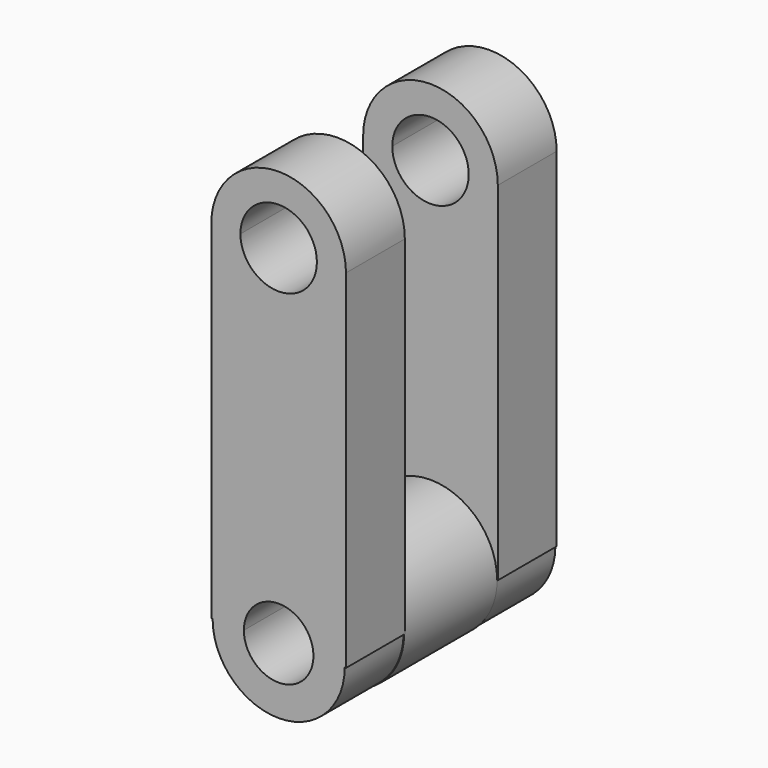
from build123d import *

# Parameters (mm, degrees)
F1_DEPTH = 25.4
F2_R     = 23.0115173136
F3_DEPTH = 20.066
F5_DEPTH = 65.533


with BuildPart() as f1:
    # F0 (on Front) → F1 (new body)
    with BuildSketch(Plane.XZ):
        with BuildLine():
            Line((23.2431292534, -60.0447505713), (23.2431292534, 60.0447505713))
            ThreePointArc((23.2431292534, 60.0447505713), (0, 36.8016213179), (-23.2431292534, 60.0447505713))
            Line((-23.2431292534, 60.0447505713), (-23.2431292534, -60.0447505713))
            Line((-23.2431292534, -60.0447505713), (-22.8073433001, -60.0447505713))
            ThreePointArc((-22.8073433001, -60.0447505713), (0, -37.2374072712), (22.8073433001, -60.0447505713))
            Line((22.8073433001, -60.0447505713), (23.2431292534, -60.0447505713))
        make_face()
        with BuildLine():
            Line((23.2431292534, 60.0447505713), (13.2014414659, 60.0447505713))
            ThreePointArc((13.2014414659, 60.0447505713), (0, 46.8433091053), (-13.2014414659, 60.0447505713))
            Line((-13.2014414659, 60.0447505713), (-23.2431292534, 60.0447505713))
            ThreePointArc((-23.2431292534, 60.0447505713), (0, 36.8016213179), (23.2431292534, 60.0447505713))
        make_face()
        with BuildLine():
            Line((12.0115778455, -60.0447505713), (22.8073433001, -60.0447505713))
            ThreePointArc((22.8073433001, -60.0447505713), (0, -37.2374072712), (-22.8073433001, -60.0447505713))
            Line((-22.8073433001, -60.0447505713), (-12.0115778455, -60.0447505713))
            ThreePointArc((-12.0115778455, -60.0447505713), (0, -48.0331727257), (12.0115778455, -60.0447505713))
        make_face()
        with BuildLine():
            ThreePointArc((-22.8073433001, -60.0447505713), (0, -82.8520938713), (22.8073433001, -60.0447505713))
            Line((22.8073433001, -60.0447505713), (12.0115778455, -60.0447505713))
            ThreePointArc((12.0115778455, -60.0447505713), (0, -72.0563284168), (-12.0115778455, -60.0447505713))
            Line((-12.0115778455, -60.0447505713), (-22.8073433001, -60.0447505713))
        make_face()
        with BuildLine():
            ThreePointArc((-13.2014414659, 60.0447505713), (0, 73.2461920372), (13.2014414659, 60.0447505713))
            Line((13.2014414659, 60.0447505713), (23.2431292534, 60.0447505713))
            ThreePointArc((23.2431292534, 60.0447505713), (0, 83.2878798246), (-23.2431292534, 60.0447505713))
            Line((-23.2431292534, 60.0447505713), (-13.2014414659, 60.0447505713))
        make_face()
    extrude(amount=F1_DEPTH)

    # F2 (on face) → F3 (join)
    with BuildSketch(Plane(origin=(0, 0, 0), x_dir=(-1, 0, 0), z_dir=(0, 1, 0))):
        with Locations((0, -60.0447505713)):
            Circle(F2_R)
    extrude(amount=F3_DEPTH)

    # F4: F1 across face


with BuildPart() as f1_1:
    add(f1.part)
    add(f1.part.mirror(Plane(origin=(0, 20.066, -60.0447505713), x_dir=(-1, 0, 0), z_dir=(0, 1, 0))))

    # F5 (cut, through all): a face of the model
    f5_faces = [f1_1.faces().sort_by_distance(p)[0] for p in [
        (0, 0, -60.0447505713),
    ]]
    extrude(f5_faces, amount=-F5_DEPTH, mode=Mode.SUBTRACT)


solid = f1_1.part
